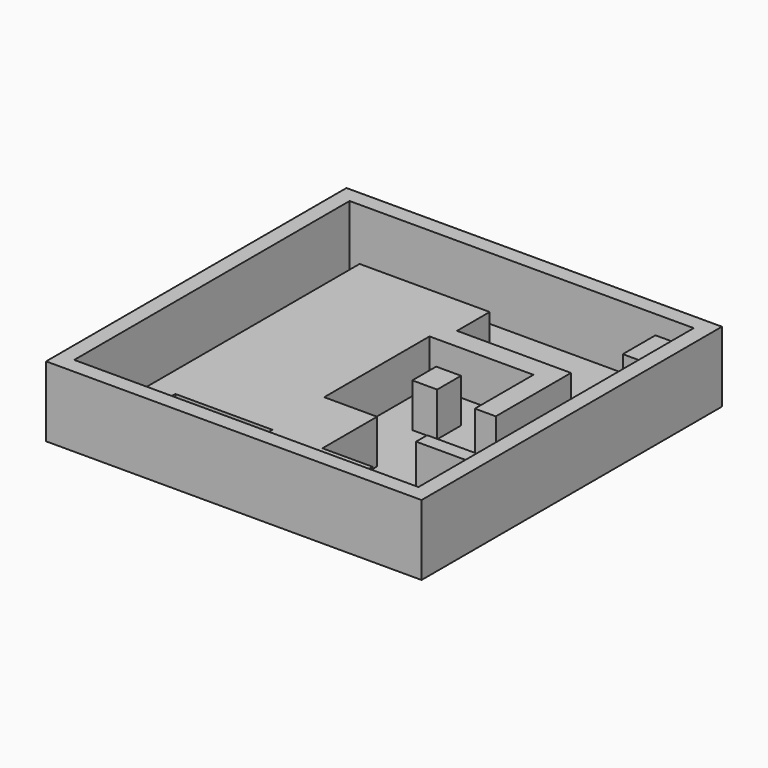
from build123d import *

# Parameters (mm, degrees)
F0_W     = 38.1
F0_H     = 38.1
F1_DEPTH = 0.79375
F2_W     = 38.1
F2_H     = 38.1
F2_W_2   = 34.925
F2_H_2   = 34.925
F3_DEPTH = 6.35
F4_W     = 1.1048951419
F4_H     = 2.9129034374
F4_W_2   = 5.5244707037
F4_H_2   = 2.109343739
F4_W_3   = 2.1220554633
F4_H_3   = 7.4329261261
F4_W_4   = 3.8873708525
F4_H_4   = 4.1415788532
F4_W_5   = 2.5213125627
F4_H_5   = 3.0267448165
F5_DEPTH = 4.445
F6_R     = 1.3326175267
F6_R_2   = 1.27
F7_DEPTH = 0.396875


with BuildPart() as f1:
    # F0 (on Top) → F1 (new body)
    with BuildSketch(Plane.XY):
        with Locations((-0.3095176071, -5.7596102857)):
            Rectangle(F0_W, F0_H)
        with Locations((-0.3095176071, -5.7596102857)):
            Rectangle(F0_W, F0_H)
    extrude(amount=F1_DEPTH)

    # F2 (on face) → F3 (join)
    with BuildSketch(Plane.XY.offset(0.79375)):
        with Locations((-0.3095176071, -5.7596102857)):
            Rectangle(F2_W, F2_H)
        with Locations((-0.3095176071, -5.7596102857)):
            Rectangle(F2_W_2, F2_H_2, mode=Mode.SUBTRACT)
    extrude(amount=F3_DEPTH)

    # F4 (on face) → F5 (join)
    with BuildSketch(Plane.XY.offset(0.79375)):
        Polygon((-12.6920176071, 6.6228897143), (-12.6920176071, -23.2221102857), (-10.1520176071, -23.2221102857), (-10.1520176071, -19.9179127812), (-10.1520176071, -12.9872104153), (-10.1520176071, 0.3719671222), (-10.1520176071, 5.3942142986), (-10.1520176071, 6.6228897143), align=None)
        Polygon((0.5091035802, 6.6228897143), (-10.1520176071, 6.6228897143), (-10.1520176071, 5.3942142986), (-0.5957915617, 5.3942142986), (0.5091035802, 5.3942142986), align=None)
        Polygon((-10.1520176071, -12.9872104153), (-10.1520176071, -19.9179127812), (-0.3095176071, -19.9179127812), (4.7704823929, -19.9179127812), (4.7704823929, -12.9872104153), (-0.5957915617, -12.9872104153), align=None)
        Polygon((-0.5957915617, 5.3942142986), (-10.1520176071, 5.3942142986), (-10.1520176071, 0.3719671222), (-10.1520176071, -12.9872104153), (-0.5957915617, -12.9872104153), (-0.5957915617, 0.3719671222), (-0.5957915617, 2.4813108612), align=None)
        Polygon((4.7704823929, -19.9179127812), (-0.3095176071, -19.9179127812), (-0.3095176071, -23.2221102857), (9.8504823929, -23.2221102857), (9.8504823929, -19.9179127812), align=None)
        with Locations((-0.0433439907, 3.9377625799)):
            Rectangle(F4_W, F4_H)
        Polygon((0.5091035802, 2.4813108612), (-0.5957915617, 2.4813108612), (-0.5957915617, 0.3719671222), (4.3260116892, 0.3719671222), (4.3260116892, 2.4813108612), (0.9108832403, 2.4813108612), align=None)
        with Locations((7.0882470411, 1.4266389917)):
            Rectangle(F4_W_2, F4_H_2)
        Polygon((9.8504823929, 2.4813108612), (9.8504823929, 0.3719671222), (9.9509269296, 0.3719671222), (12.0729823929, 0.3719671222), (12.0729823929, 2.4813108612), align=None)
        with Locations((11.0119546612, -3.3444959408)):
            Rectangle(F4_W_3, F4_H_3)
        Polygon((17.1529823929, -14.3934395164), (17.1529823929, -12.9872104153), (12.3616074508, -12.9872104153), (9.8504823929, -12.9872104153), (9.8504823929, -14.3934395164), align=None)
        with Locations((15.2092969666, 9.6321002878)):
            Rectangle(F4_W_4, F4_H_4)
        with Locations((4.3130695121, -4.8578686547)):
            Rectangle(F4_W_5, F4_H_5)
    extrude(amount=F5_DEPTH)

    # F6 (on face) → F7 (cut)
    with BuildSketch(Plane.XY.offset(0.79375)):
        with Locations((13.801550063, -19.3494927589)):
            Circle(F6_R)
        with Locations((-15.1696396893, -20.454704795)):
            Circle(F6_R_2)
    extrude(amount=-F7_DEPTH, mode=Mode.SUBTRACT)


solid = f1.part
